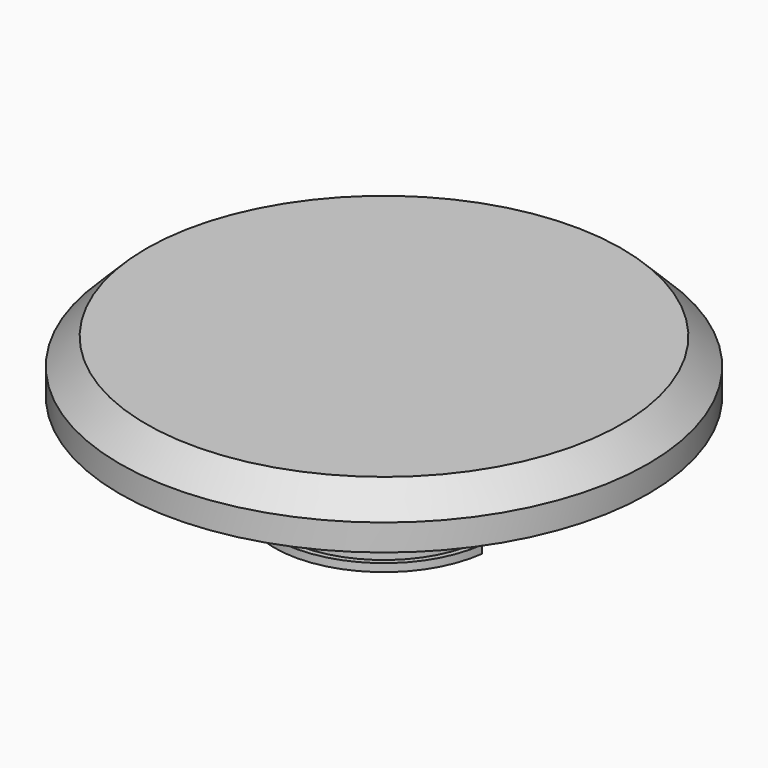
from build123d import *

# Parameters (mm, degrees)
F3_DEPTH = 4
F4_SIZE  = 1


with BuildPart() as f1:
    # F0 (on Front) → F1 (revolve)
    with BuildSketch(Plane.XZ):
        Polygon((-17.0283879898, 10.2372211188), (-17.0283879898, 15.9372211188), (-27.0283879898, 15.9372211188), (-27.0283879898, 13.9372211188), (-22.4783879898, 13.9372211188), (-22.4783879898, 13.2372211188), (-20.9783879898, 13.2372211188), (-20.9783879898, 10.5372211188), (-21.1783879898, 10.5372211188), (-21.1783879898, 10.2372211188), align=None)
    revolve(axis=Axis((-17.0283879898, 0, 13.0872211188), (0, 0, -1)))

    # F2 (on face) → F3 (cut)
    with BuildSketch(Plane(origin=(0, 0, 10.2372211188), x_dir=(1, 0, 0), z_dir=(0, 0, -1))):
        with BuildLine():
            Line((-21.1481574009, -0.5), (-18.705438973, -0.5))
            ThreePointArc((-18.705438973, -0.5), (-17.0283879898, -1.75), (-15.3513370067, -0.5))
            Line((-15.3513370067, -0.5), (-12.9086185788, -0.5))
            ThreePointArc((-12.9086185788, -0.5), (-12.8859525313, -0.2504565274), (-12.8783879898, 0))
            ThreePointArc((-12.8783879898, 0), (-12.8859525313, 0.2504565274), (-12.9086185788, 0.5))
            Line((-12.9086185788, 0.5), (-15.3513370067, 0.5))
            ThreePointArc((-15.3513370067, 0.5), (-17.0283879898, 1.75), (-18.705438973, 0.5))
            Line((-18.705438973, 0.5), (-21.1481574009, 0.5))
            ThreePointArc((-21.1481574009, 0.5), (-21.1783879898, 0), (-21.1481574009, -0.5))
        make_face()
    extrude(amount=-F3_DEPTH, mode=Mode.SUBTRACT)

    # F4
    f4_edges = [f1.edges().sort_by_distance(p)[0] for p in [
        (-7.028388, 0, 15.937221),
    ]]
    chamfer(f4_edges, length=F4_SIZE)


solid = f1.part
